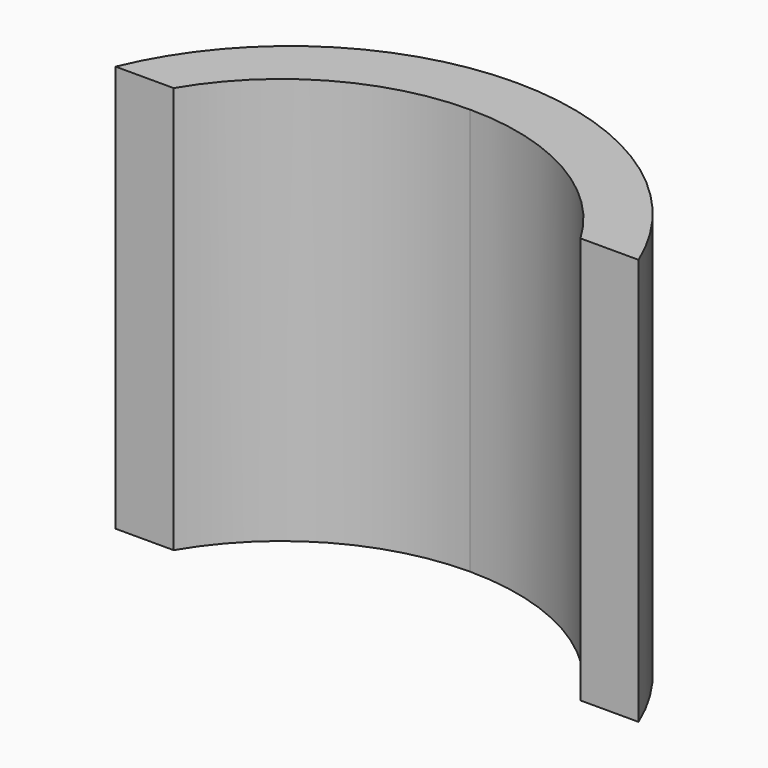
from build123d import *

# Parameters (mm, degrees)
F1_DEPTH = 8.89


with BuildPart() as f1:
    # F0 (on Top) → F1 (new body)
    with BuildSketch(Plane.XY):
        with BuildLine():
            Line((4.445, 0), (5.715, 0))
            ThreePointArc((5.715, 0), (3.434288, 2.770181), (0, 3.81))
            Line((0, 3.81), (0, 2.54))
            ThreePointArc((0, 2.54), (2.559767, 1.860217), (4.445, 0))
        make_face()
        with BuildLine():
            Line((0, 2.54), (0, 3.81))
            ThreePointArc((0, 3.81), (-3.434288, 2.770181), (-5.715, 0))
            Line((-5.715, 0), (-4.445, 0))
            ThreePointArc((-4.445, 0), (-2.559767, 1.860217), (0, 2.54))
        make_face()
    extrude(amount=F1_DEPTH)


solid = f1.part
